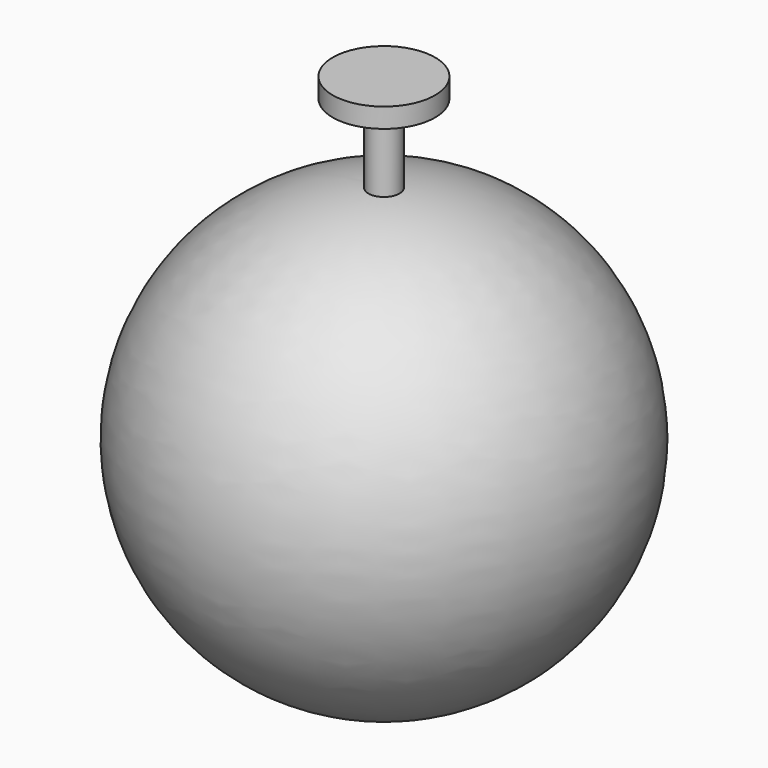
from build123d import *


with BuildPart() as f1:
    # F0 (on Front) → F1 (revolve)
    with BuildSketch(Plane.XZ):
        with BuildLine():
            Line((0, 55.387605), (-4.027964, 57.135193))
            ThreePointArc((-4.027964, 57.135193), (-57.241537, -2.01523), (0, -57.277))
            Line((0, -57.277), (0, 55.387605))
        make_face()
        Polygon((-4.027964, 77.455193), (-4.027964, 57.135193), (0, 55.387605), (0, 82.535193), (-13.250007, 82.535193), (-13.250007, 77.455193), align=None)
    revolve(axis=Axis((0, 0, -3.053601), (0, 0, -1)))


solid = f1.part
